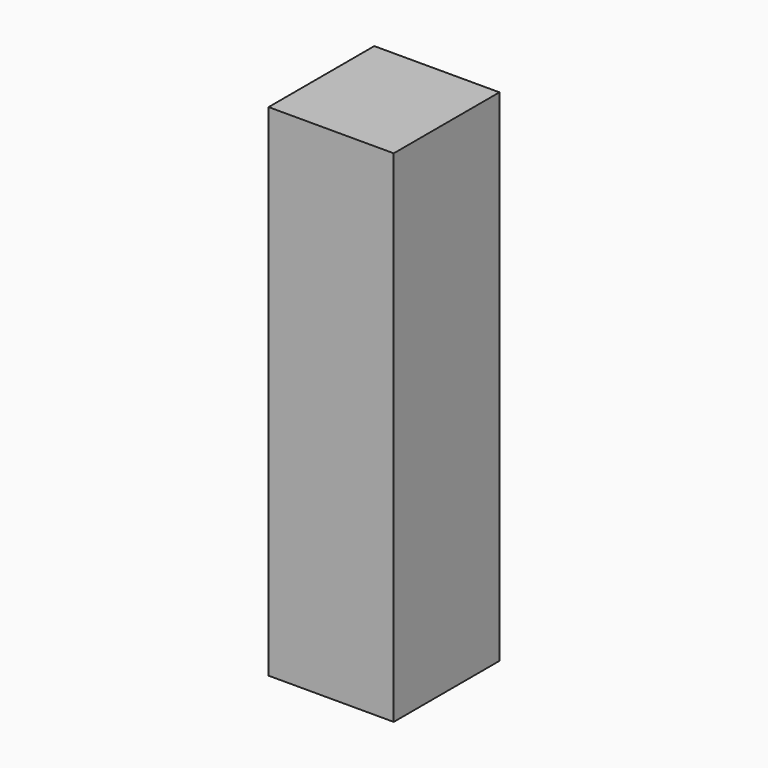
from build123d import *

# Parameters (mm, degrees)
F0_W      = 457.2
F0_H      = 1828.8
F1_DEPTH  = 457.2
F2_W      = 168.482557
F2_H      = 257.74318
F3_DEPTH  = 355.6
F1_FACE_W = 457.2
F1_FACE_H = 1828.8
F4_DEPTH  = 25.4


with BuildPart() as f1:
    # F0 (on Front) → F1 (new body)
    with BuildSketch(Plane.XZ):
        with Locations((168.771205, 8.264739)):
            Rectangle(F0_W, F0_H)
    extrude(amount=F1_DEPTH)

    # F2 (on face) → F3 (join)
    with BuildSketch(Plane.XZ.offset(457.2)):
        with Locations((252.723835, 746.079415)):
            Rectangle(F2_W, F2_H)
    extrude(amount=-F3_DEPTH)

    # F1_face (on face) → F4 (join)
    with BuildSketch(Plane(origin=(168.771205, -457.2, 8.264739), x_dir=(1, 0, 0), z_dir=(0, -1, 0))):
        Rectangle(F1_FACE_W, F1_FACE_H)
    extrude(amount=F4_DEPTH)


solid = f1.part
